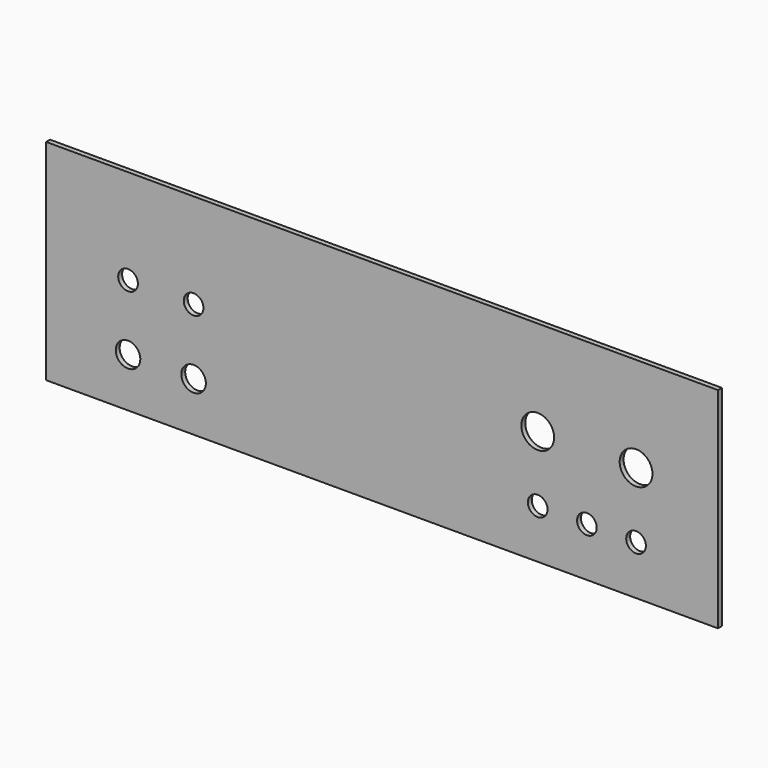
from build123d import *

# Parameters (mm, degrees)
F0_W     = 205
F0_H     = 128
F0_R     = 7.5
F0_R_2   = 6
F0_R_3   = 10
F1_DEPTH = 3


with BuildPart() as f1:
    # F0 (on Front) → F1 (new body)
    with BuildSketch(Plane.XZ):
        with Locations((-319.881634, 179.788611)):
            Rectangle(F0_W, F0_H)
        with Locations((-372.381634, 145.788611)):
            Circle(F0_R, mode=Mode.SUBTRACT)
        with Locations((-332.381634, 145.788611)):
            Circle(F0_R, mode=Mode.SUBTRACT)
        with Locations((-372.381634, 185.788611)):
            Circle(F0_R_2, mode=Mode.SUBTRACT)
        with Locations((-332.381634, 185.788611)):
            Circle(F0_R_2, mode=Mode.SUBTRACT)
        with Locations((-114.881634, 179.788611)):
            Rectangle(F0_W, F0_H)
        with Locations((-122.381634, 145.788611)):
            Circle(F0_R_2, mode=Mode.SUBTRACT)
        with Locations((-92.381634, 145.788611)):
            Circle(F0_R_2, mode=Mode.SUBTRACT)
        with Locations((-62.381634, 145.788611)):
            Circle(F0_R_2, mode=Mode.SUBTRACT)
        with Locations((-122.381634, 185.788611)):
            Circle(F0_R_3, mode=Mode.SUBTRACT)
        with Locations((-62.381634, 185.788611)):
            Circle(F0_R_3, mode=Mode.SUBTRACT)
    extrude(amount=F1_DEPTH)


solid = f1.part
